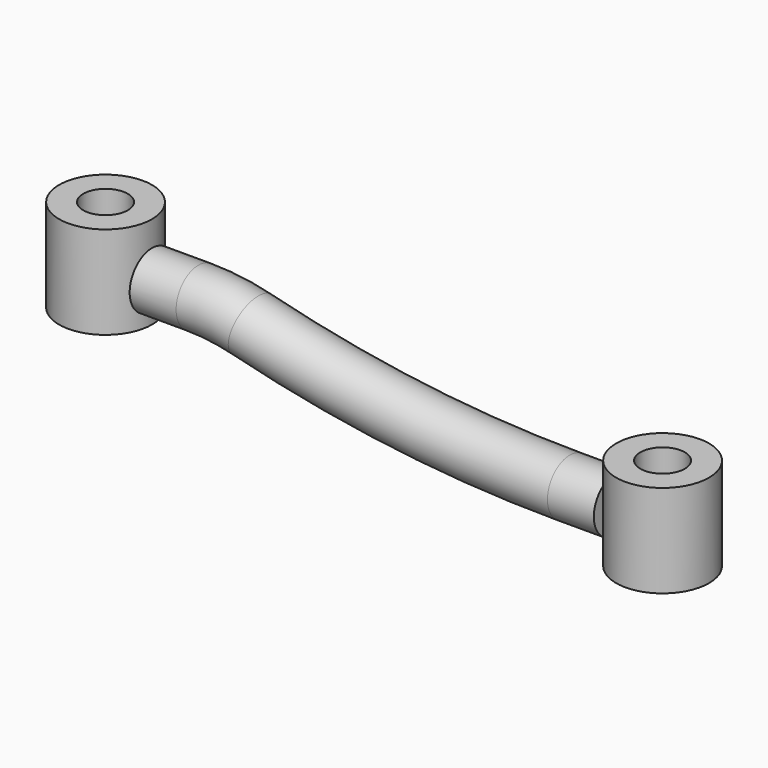
from build123d import *

# Parameters (mm, degrees)
F0_R     = 12.5
F0_R_2   = 6
F1_DEPTH = 25
F2_R     = 12.5
F2_R_2   = 6
F3_DEPTH = 12.5
F6_R     = 7.5


with BuildPart() as f1:
    # F0 (on Top) → F1 (new body)
    with BuildSketch(Plane.XY):
        Circle(F0_R)
        Circle(F0_R_2, mode=Mode.SUBTRACT)
    extrude(amount=F1_DEPTH)


with BuildPart() as f3:
    # F2 (on Top) → F3 (new body, symmetric)
    with BuildSketch(Plane.XY):
        with Locations((150, 0)):
            Circle(F2_R)
        with Locations((150, 0)):
            Circle(F2_R_2, mode=Mode.SUBTRACT)
    extrude(amount=F3_DEPTH, both=True)


with BuildPart() as f7:
    # F7: sweep along a path in F4
    with BuildLine(Plane.XZ) as f7_path:
        Line((12.5, 12.5), (25, 12.5))
        ThreePointArc((25, 12.5), (32.4420840754, 12.0366726028), (39.7692307692, 10.6538461538))
        ThreePointArc((39.7692307692, 10.6538461538), (82.0529731485, 2.6737851879), (125, 0))
        Line((125, 0), (137.5, 0))
    # F6 (on offset) → F7 (sweep)
    with BuildSketch(Plane.YZ.offset(12.5)):
        with Locations((0, 10.6538461538)):
            Circle(F6_R)
    sweep(path=f7_path.line)


solid = Compound([f1.part, f3.part, f7.part])
